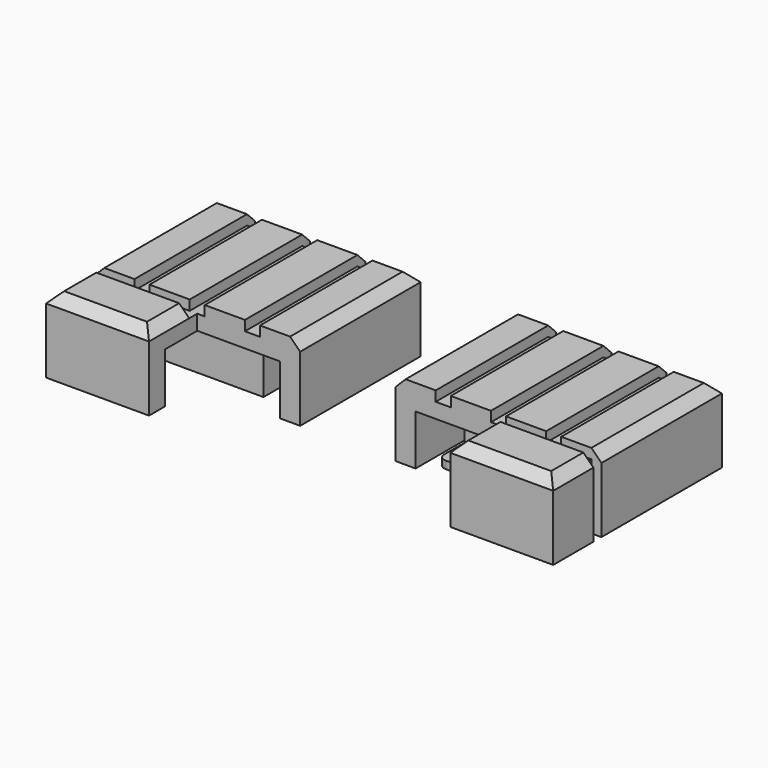
from build123d import *

# Parameters (mm, degrees)
F0_W      = 8
F0_H      = 30
F0_W_2    = 3
F0_W_3    = 20.5
F0_H_2    = 10
F1_DEPTH  = 15
F2_DEPTH  = 2
F3_SIZE   = 2
F4_R      = 0.85
F5_DEPTH  = 15.001
F6_R      = 1
F6_R_2    = 7.5
F7_DEPTH  = 1.5
F8_W      = 3
F8_H      = 13
F9_DEPTH  = 2
F10_W     = 2
F10_H     = 13
F11_DEPTH = 2
F12_ANGLE = 90
F13_R     = 0.85
F14_DEPTH = 1.5
F15_W     = 33
F15_H     = 34
F16_DEPTH = 10
F17_W     = 20
F17_H     = 22
F17_R     = 0.85
F17_R_2   = 7.5
F18_DEPTH = 10
F19_R     = 0.85
F20_DEPTH = 10


with BuildPart() as f1:
    # F0 (on Top) → F1 (new body)
    with BuildSketch(Plane.XY):
        with Locations((-16.5, 0)):
            Rectangle(F0_W, F0_H)
        with Locations((-11, 0)):
            Rectangle(F0_W_2, F0_H)
        with Locations((-5.5, 0)):
            Rectangle(F0_W, F0_H)
        Polygon((1.5, 15), (-1.5, 15), (-1.5, -15), (0, -15), (1.5, -15), align=None)
        with Locations((5.5, 0)):
            Rectangle(F0_W, F0_H)
        with Locations((11, 0)):
            Rectangle(F0_W_2, F0_H)
        Polygon((9.5, -15), (1.5, -15), (0, -15), (0, -17), (20.5, -17), (20.5, -15), (12.5, -15), align=None)
        with Locations((16.5, 0)):
            Rectangle(F0_W, F0_H)
        with Locations((10.25, -22)):
            Rectangle(F0_W_3, F0_H_2)
    extrude(amount=-F1_DEPTH)

    # F0 (on Top) → F2 (cut)
    with BuildSketch(Plane.XY):
        with Locations((-11, 0)):
            Rectangle(F0_W_2, F0_H)
        Polygon((1.5, 15), (-1.5, 15), (-1.5, -15), (0, -15), (1.5, -15), align=None)
        with Locations((11, 0)):
            Rectangle(F0_W_2, F0_H)
        Polygon((9.5, -15), (1.5, -15), (0, -15), (0, -17), (20.5, -17), (20.5, -15), (12.5, -15), align=None)
    extrude(amount=-F2_DEPTH, mode=Mode.SUBTRACT)

    # F3
    f3_edges = [f1.edges().sort_by_distance(p)[0] for p in [
        (-16.5, 15, 0),
        (-20.5, 0, 0),
        (20.5, 0, 0),
        (16.5, 15, 0),
        (5.5, 15, 0),
        (-5.5, 15, 0),
        (10.25, -27, 0),
        (20.5, -22, 0),
        (0, -22, 0),
    ]]
    chamfer(f3_edges, length=F3_SIZE)

    # F4 (on face) → F5 (cut, through all)
    with BuildSketch(Plane.XY):
        with Locations((-7.5, 7.5)):
            Circle(F4_R)
        with Locations((7.5, 7.5)):
            Circle(F4_R)
        with Locations((7.5, -7.5)):
            Circle(F4_R)
        with Locations((-7.5, -7.5)):
            Circle(F4_R)
    extrude(amount=-F5_DEPTH, mode=Mode.SUBTRACT)

    # F8 (on face) → F9 (cut)
    with BuildSketch(Plane(origin=(0, 15, 0), x_dir=(-1, 0, 0), z_dir=(0, 1, 0))):
        with Locations((11, -8.5)):
            Rectangle(F8_W, F8_H)
        Polygon((1.5, -15), (1.5, -2), (0, -2), (-1.5, -2), (-1.5, -15), (0, -15), align=None)
        with Locations((-11, -8.5)):
            Rectangle(F8_W, F8_H)
    extrude(amount=-F9_DEPTH, mode=Mode.SUBTRACT)

    # F10 (on face) → F11 (cut)
    with BuildSketch(Plane.YZ.offset(20.5)):
        with Locations((-16, -8.5)):
            Rectangle(F10_W, F10_H)
    extrude(amount=-F11_DEPTH, mode=Mode.SUBTRACT)

    # F15 (on face) → F16 (cut)
    with BuildSketch(Plane(origin=(0, 0, -15), x_dir=(1, 0, 0), z_dir=(0, 0, -1))):
        with Locations((0, 6)):
            Rectangle(F15_W, F15_H)
    extrude(amount=-F16_DEPTH, mode=Mode.SUBTRACT)



with BuildPart() as f7:
    # F6 (on face) → F7 (new body)
    with BuildSketch(Plane(origin=(0, 0, -15), x_dir=(1, 0, 0), z_dir=(0, 0, -1))):
        with BuildLine():
            ThreePointArc((10, 14.5), (9.5606601718, 15.5606601718), (8.5, 16))
            Line((8.5, 16), (-8.5, 16))
            ThreePointArc((-8.5, 16), (-9.5606601718, 15.5606601718), (-10, 14.5))
            Line((-10, 14.5), (-10, -14.5))
            ThreePointArc((-10, -14.5), (-9.5606601718, -15.5606601718), (-8.5, -16))
            Line((-8.5, -16), (8.5, -16))
            ThreePointArc((8.5, -16), (9.5606601718, -15.5606601718), (10, -14.5))
            Line((10, -14.5), (10, 14.5))
        make_face()
        with Locations((-7.5, -13.5)):
            Circle(F6_R, mode=Mode.SUBTRACT)
        with Locations((0, -13.5)):
            Circle(F6_R, mode=Mode.SUBTRACT)
        with Locations((7.5, -13.5)):
            Circle(F6_R, mode=Mode.SUBTRACT)
        with Locations((-7.5, 13.5)):
            Circle(F6_R, mode=Mode.SUBTRACT)
        Circle(F6_R_2, mode=Mode.SUBTRACT)
        with Locations((0, 13.5)):
            Circle(F6_R, mode=Mode.SUBTRACT)
        with Locations((7.5, 13.5)):
            Circle(F6_R, mode=Mode.SUBTRACT)
    extrude(amount=F7_DEPTH)


with BuildPart() as f7_1:
    # F12: moved
    add(f7.part.rotate(Axis((0, 0, -15), (0, 0, -1)), F12_ANGLE))

    # F13 (on face) → F14 (cut, through all)
    with BuildSketch(Plane(origin=(0, 0, -16.5), x_dir=(1, 0, 0), z_dir=(0, 0, -1))):
        with Locations((-7.5, -7.5)):
            Circle(F13_R)
        with Locations((7.5, -7.5)):
            Circle(F13_R)
        with Locations((-7.5, 7.5)):
            Circle(F13_R)
        with Locations((7.5, 7.5)):
            Circle(F13_R)
    extrude(amount=-F14_DEPTH, mode=Mode.SUBTRACT)


with BuildPart() as f18:
    # F17 (on face) → F18 (new body, through all)
    with BuildSketch(Plane(origin=(0, 0, -5), x_dir=(1, 0, 0), z_dir=(0, 0, -1))):
        Rectangle(F17_W, F17_H)
        with Locations((-7.5, -7.5)):
            Circle(F17_R, mode=Mode.SUBTRACT)
        with Locations((7.5, -7.5)):
            Circle(F17_R, mode=Mode.SUBTRACT)
        with Locations((-7.5, 7.5)):
            Circle(F17_R, mode=Mode.SUBTRACT)
        Circle(F17_R_2, mode=Mode.SUBTRACT)
        with Locations((7.5, 7.5)):
            Circle(F17_R, mode=Mode.SUBTRACT)
    extrude(amount=F18_DEPTH)


with BuildPart() as f1_1:
    add(f1.part)

    add(f18.part)  # F20 merges F18
    # F19 (on face) → F20 (join)
    with BuildSketch(Plane.XY):
        with Locations((7.5, 7.5)):
            Circle(F19_R)
        with Locations((-7.5, 7.5)):
            Circle(F19_R)
        with Locations((-7.5, -7.5)):
            Circle(F19_R)
        with Locations((7.5, -7.5)):
            Circle(F19_R)
    extrude(amount=-F20_DEPTH)


with BuildPart() as f22_1:
    # F22: instance of F1
    add(f1_1.part.mirror(Plane.YZ.offset(-30)))


solid = Compound([f7_1.part, f1_1.part, f22_1.part])
